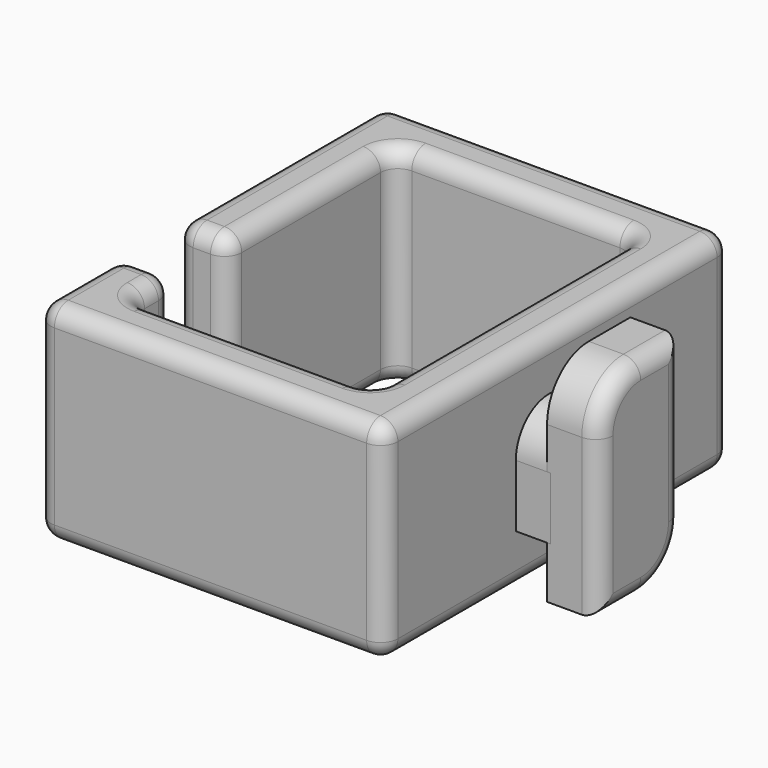
from build123d import *

# Parameters (mm, degrees)
F0_W       = 3
F0_H       = 12
F0_W_2     = 6
F0_H_2     = 3
F0_H_3     = 6
F1_DEPTH   = 3
F2_START   = 1.8
F2_DEPTH   = 3
F3_DEPTH   = 2
F4_START   = -3
F4_DEPTH   = 17
F5_R       = 3
F6_R       = 2.4
F7_R       = 1
F8_R       = 1
F9_W       = 3
F9_H       = 12
F10_DEPTH  = 12
F11_START  = 4
F10_FACE_W = 3
F10_FACE_H = 12
F11_DEPTH  = 3
F12_R      = 1


with BuildPart() as f1:
    # F0 (on Right) → F1 (new body)
    with BuildSketch(Plane.YZ):
        with Locations((-11, 0)):
            Rectangle(F0_W, F0_H)
        with Locations((0, 4.5)):
            Rectangle(F0_W_2, F0_H_2)
        with Locations((0, -4.5)):
            Rectangle(F0_W_2, F0_H_2)
        Rectangle(F0_W_2, F0_H_3)
        with Locations((11, 0)):
            Rectangle(F0_W, F0_H)
        Polygon((-3, -6), (-3, -3), (-3, 3), (-3, 6), (-9.5, 6), (-9.5, -6), align=None)
        Polygon((3, 3), (3, -3), (3, -6), (9.5, -6), (9.5, 6), (3, 6), align=None)
    extrude(amount=-F1_DEPTH)

    # F0 (on Right) → F4 (join)
    with BuildSketch(Plane.YZ.offset(F4_START)):
        with Locations((11, 0)):
            Rectangle(F0_W, F0_H)
        with Locations((-11, 0)):
            Rectangle(F0_W, F0_H)
    extrude(amount=-F4_DEPTH)

    # F8
    f8_edges = [f1.edges().sort_by_distance(p)[0] for p in [
        (0, -12.5, 0),
        (0, 0, 6),
        (0, 0, -6),
        (0, 12.5, 0),
        (-10, -12.5, -6),
        (-10, -12.5, 6),
        (-10, 12.5, 6),
        (-10, 12.5, -6),
    ]]
    fillet(f8_edges, radius=F8_R)

    # F9 (on face) → F10 (join)
    with BuildSketch(Plane.XZ.offset(-9.5)):
        with Locations((-18.5, 0)):
            Rectangle(F9_W, F9_H)
    extrude(amount=F10_DEPTH)

    # F10_face (on face) → F11 (join)
    with BuildSketch(Plane(origin=(-18.5, -2.5, 0), x_dir=(1, 0, 0), z_dir=(0, -1, 0)).offset(F11_START)):
        Rectangle(F10_FACE_W, F10_FACE_H)
    extrude(amount=F11_DEPTH)

    # F12
    f12_edges = [f1.edges().sort_by_distance(p)[0] for p in [
        (-20, -12.5, 0),
        (-20, -9, 6),
        (-20, -12.207107, 5.707107),
        (-20, -9, -6),
        (-20, -6.5, 0),
        (-20, -12.207107, -5.707107),
        (-20, 4.5, 6),
        (-20, -2.5, 0),
        (-18.5, -2.5, -6),
        (-18.5, -2.5, 6),
        (-17, -2.5, 0),
        (-18.5, -6.5, 6),
        (-17, -8, 6),
        (-17, 3.5, 6),
        (-10, 9.5, 6),
        (-3, 0, 6),
        (-10, -9.5, 6),
        (-20, 12.207107, -5.707107),
        (-20, 4.5, -6),
        (-20, 12.5, 0),
        (-20, 12.207107, 5.707107),
        (-18.5, -6.5, -6),
        (-17, -6.5, 0),
        (-10, -9.5, -6),
        (-17, -8, -6),
        (-3, 0, -6),
        (-10, 9.5, -6),
        (-17, 3.5, -6),
        (-17, -9.5, 0),
        (-17, 9.5, 0),
        (-3, 9.5, 0),
        (-3, -9.5, 0),
    ]]
    fillet(f12_edges, radius=F12_R)


with BuildPart() as f2:
    # F0 (on Right) → F2 (new body)
    with BuildSketch(Plane.YZ.offset(F2_START)):
        with Locations((0, 4.5)):
            Rectangle(F0_W_2, F0_H_2)
        Rectangle(F0_W_2, F0_H_3)
        with Locations((0, -4.5)):
            Rectangle(F0_W_2, F0_H_2)
    extrude(amount=F2_DEPTH)

    # F5
    f5_edges = [f2.edges().sort_by_distance(p)[0] for p in [
        (3.3, -3, 6),
        (3.3, 3, -6),
    ]]
    fillet(f5_edges, radius=F5_R)

    # F7
    f7_edges = [f2.edges().sort_by_distance(p)[0] for p in [
        (4.8, 3, 1.5),
        (4.8, 1.5, 6),
        (4.8, -3, -1.5),
        (4.8, -2.12132, 5.12132),
        (4.8, -1.5, -6),
        (4.8, 2.12132, -5.12132),
    ]]
    fillet(f7_edges, radius=F7_R)


with BuildPart() as f3:
    # F0 (on Right) → F3 (new body)
    with BuildSketch(Plane.YZ):
        Rectangle(F0_W_2, F0_H_3)
    extrude(amount=F3_DEPTH)

    # F6
    f6_edges = [f3.edges().sort_by_distance(p)[0] for p in [
        (1, 3, -3),
        (1, -3, 3),
    ]]
    fillet(f6_edges, radius=F6_R)


solid = Compound([f1.part, f2.part, f3.part])
